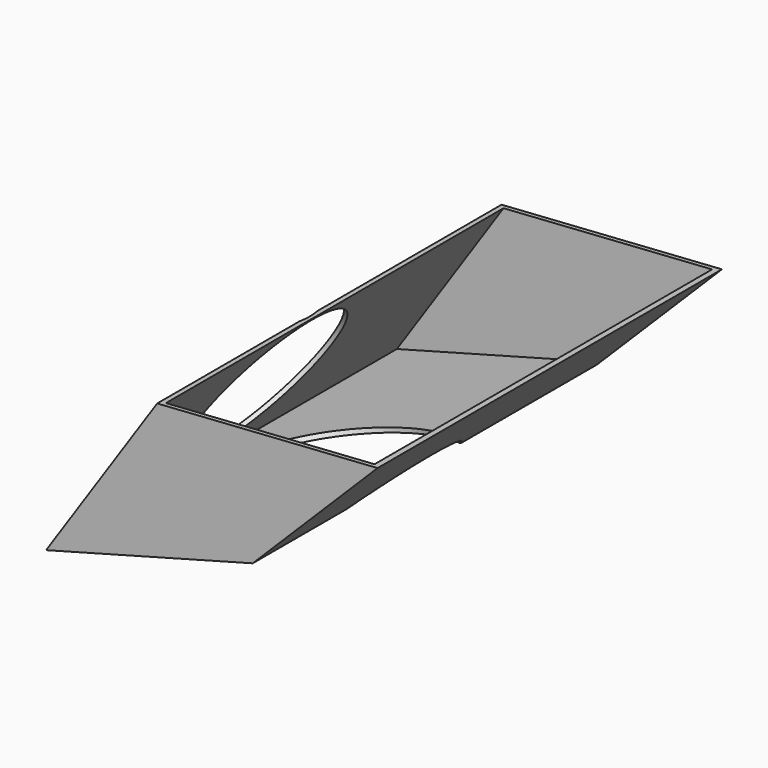
from build123d import *

# Parameters (mm, degrees)
F1_DEPTH = 254
F2_T     = -2.5
F4_D     = 100


with BuildPart() as f1:
    # F0 (on Front) → F1 (new body)
    with BuildSketch(Plane.XZ):
        Polygon((-10.566324, 6.683148), (111.352801, 39.486691), (185.046107, 112.936161), (54.999065, 104.22466), align=None)
    extrude(amount=F1_DEPTH)

    # F2
    f2_openings = [f1.faces().sort_by_distance(p)[0] for p in [
        (120.022586, -127, 108.58041),
    ]]
    offset(amount=F2_T, openings=f2_openings)

    # F4 (through all)
    with Locations(Plane(origin=(-10.372185, 0, 6.971968), x_dir=(0, -1, 0), z_dir=(-0.829933, 0, 0.557864))):
        with Locations((142.56683, 67.633435)):
            Hole(F4_D / 2)


solid = f1.part
